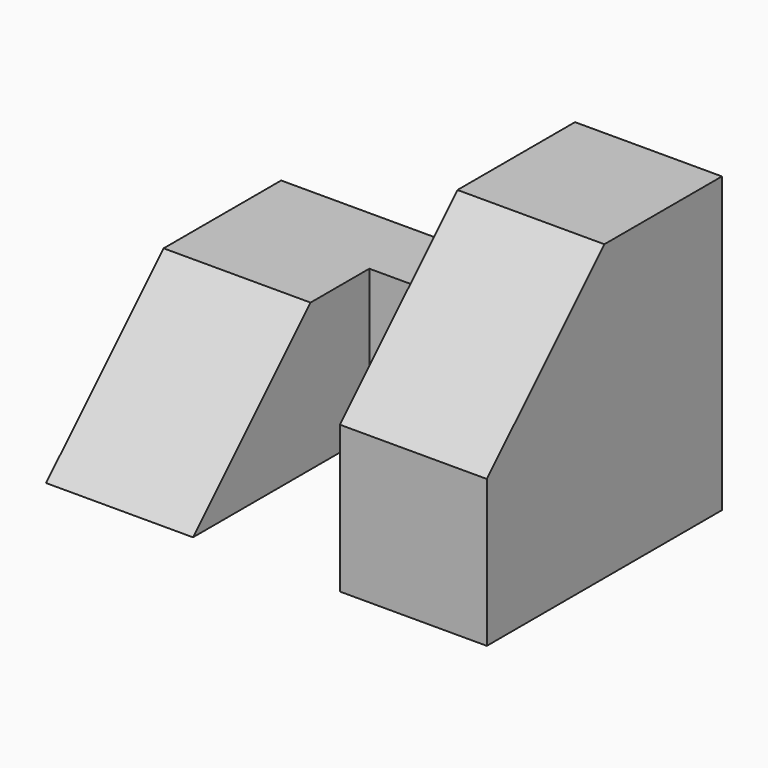
from build123d import *

# Parameters (mm, degrees)
F1_DEPTH = 12.7
F3_DEPTH = 12.7
F5_DEPTH = 12.7


with BuildPart() as f1:
    # F0 (on Right) → F1 (new body)
    with BuildSketch(Plane.YZ):
        Polygon((-12.7, 12.7), (-12.7, 0), (12.7, 0), (12.7, 25.4), (0, 25.4), align=None)
    extrude(amount=-F1_DEPTH)

    # F2 (on face) → F3 (join)
    with BuildSketch(Plane(origin=(0, 0, 0), x_dir=(1, 0, 0), z_dir=(0, 0, -1))):
        Polygon((-38.1, -12.7), (-12.7, -12.7), (-12.7, -6.35), (-25.4, -6.35), (-25.4, 0), (-38.1, 0), align=None)
    extrude(amount=-F3_DEPTH)

    # F4 (on face) → F5 (join)
    with BuildSketch(Plane(origin=(-38.1, 0, 0), x_dir=(0, -1, 0), z_dir=(-1, 0, 0))):
        Polygon((12.7, 0), (0, 12.7), (0, 0), align=None)
    extrude(amount=-F5_DEPTH)


solid = f1.part
